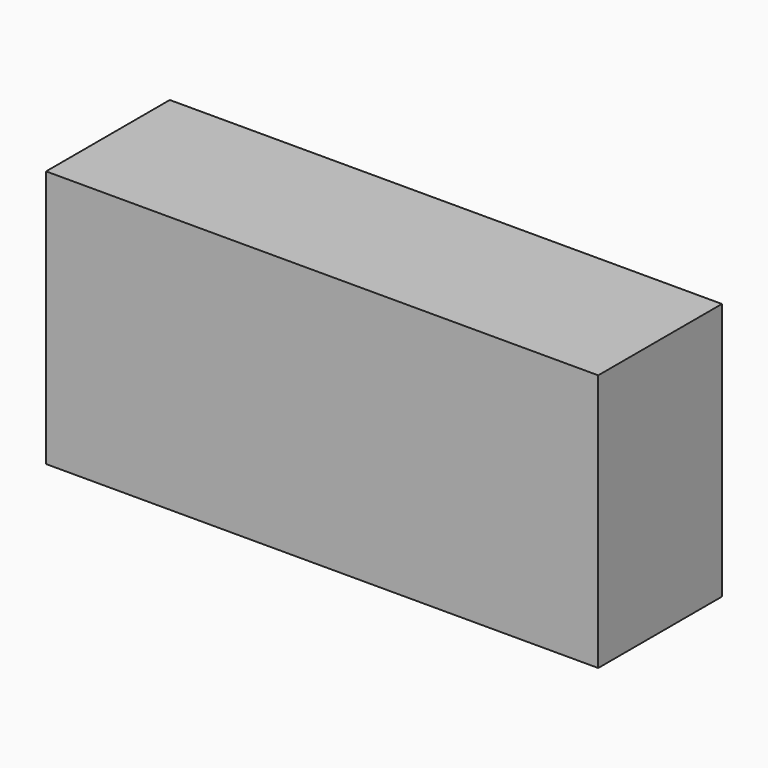
from build123d import *

# Parameters (mm, degrees)
F0_W     = 150
F0_H     = 70
F1_DEPTH = 42
F2_R     = 13.890521
F3_DEPTH = 42


with BuildPart() as f1:
    # F0 (on Front) → F1 (new body)
    with BuildSketch(Plane.XZ):
        with Locations((24.674132, 12.261424)):
            Rectangle(F0_W, F0_H)
    extrude(amount=F1_DEPTH)

    # F2 (on face) → F3 (join, through all)
    with BuildSketch(Plane.XZ.offset(42)):
        with Locations((-18.871136, 13.875489)):
            Circle(F2_R)
    extrude(amount=-F3_DEPTH)


solid = f1.part
